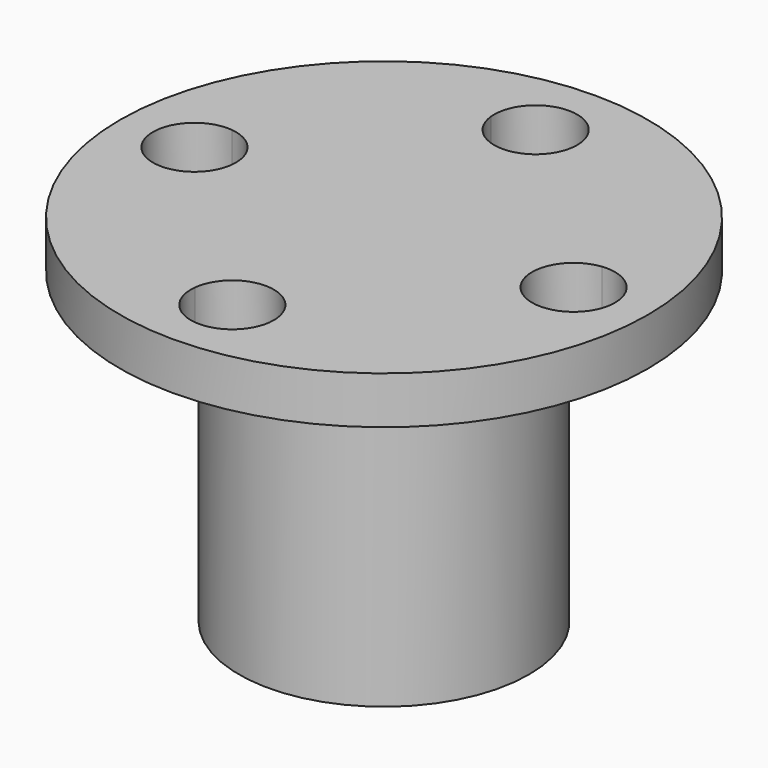
from build123d import *

# Parameters (mm, degrees)
F3_DEPTH = 5


with BuildPart() as f1:
    # F0 (on Front) → F1 (revolve)
    with BuildSketch(Plane.XZ):
        Polygon((0, 15), (0, 0), (6.115, 0), (6.115, 13), (11.14, 13), (11.14, 15), align=None)
    revolve(axis=Axis((0, 0, 7.5), (0, 0, 1)))

    # F2 (on face) → F3 (cut)
    with BuildSketch(Plane.XY.offset(15)):
        with BuildLine():
            ThreePointArc((1.7395009766, 7.80859375), (0, 8), (-1.7395009766, 7.80859375))
            ThreePointArc((-1.7395009766, 7.80859375), (0, 6.25), (1.7395009766, 7.80859375))
        make_face()
        with BuildLine():
            ThreePointArc((1.7395009766, 7.80859375), (1.7473732728, 7.9041530099), (1.75, 8))
            ThreePointArc((1.75, 8), (-0.0958469901, 9.7473732728), (-1.7395009766, 7.80859375))
            ThreePointArc((-1.7395009766, 7.80859375), (0, 8), (1.7395009766, 7.80859375))
        make_face()
        with BuildLine():
            ThreePointArc((-7.80859375, -1.7395009766), (-8, 0), (-7.80859375, 1.7395009766))
            ThreePointArc((-7.80859375, 1.7395009766), (-9.75, 0), (-7.80859375, -1.7395009766))
        make_face()
        with BuildLine():
            ThreePointArc((-6.25, 0), (-6.6966464529, 1.1678054338), (-7.80859375, 1.7395009766))
            ThreePointArc((-7.80859375, 1.7395009766), (-8, 0), (-7.80859375, -1.7395009766))
            ThreePointArc((-7.80859375, -1.7395009766), (-6.6966464529, -1.1678054338), (-6.25, 0))
        make_face()
        with BuildLine():
            ThreePointArc((1.7395009766, -7.80859375), (0, -6.25), (-1.7395009766, -7.80859375))
            ThreePointArc((-1.7395009766, -7.80859375), (0, -8), (1.7395009766, -7.80859375))
        make_face()
        with BuildLine():
            ThreePointArc((1.7395009766, -7.80859375), (0, -8), (-1.7395009766, -7.80859375))
            ThreePointArc((-1.7395009766, -7.80859375), (-0.0958469901, -9.7473732728), (1.75, -8))
            ThreePointArc((1.75, -8), (1.7473732728, -7.9041530099), (1.7395009766, -7.80859375))
        make_face()
        with BuildLine():
            ThreePointArc((9.75, 0), (9.1678054338, 1.3033535471), (7.80859375, 1.7395009766))
            ThreePointArc((7.80859375, 1.7395009766), (7.9520044643, 0.875), (8, 0))
            ThreePointArc((8, 0), (7.9520044643, -0.875), (7.80859375, -1.7395009766))
            ThreePointArc((7.80859375, -1.7395009766), (9.1678054338, -1.3033535471), (9.75, 0))
        make_face()
        with BuildLine():
            ThreePointArc((8, 0), (7.9520044643, 0.875), (7.80859375, 1.7395009766))
            ThreePointArc((7.80859375, 1.7395009766), (6.25, 0), (7.80859375, -1.7395009766))
            ThreePointArc((7.80859375, -1.7395009766), (7.9520044643, -0.875), (8, 0))
        make_face()
    extrude(amount=-F3_DEPTH, mode=Mode.SUBTRACT)


solid = f1.part
